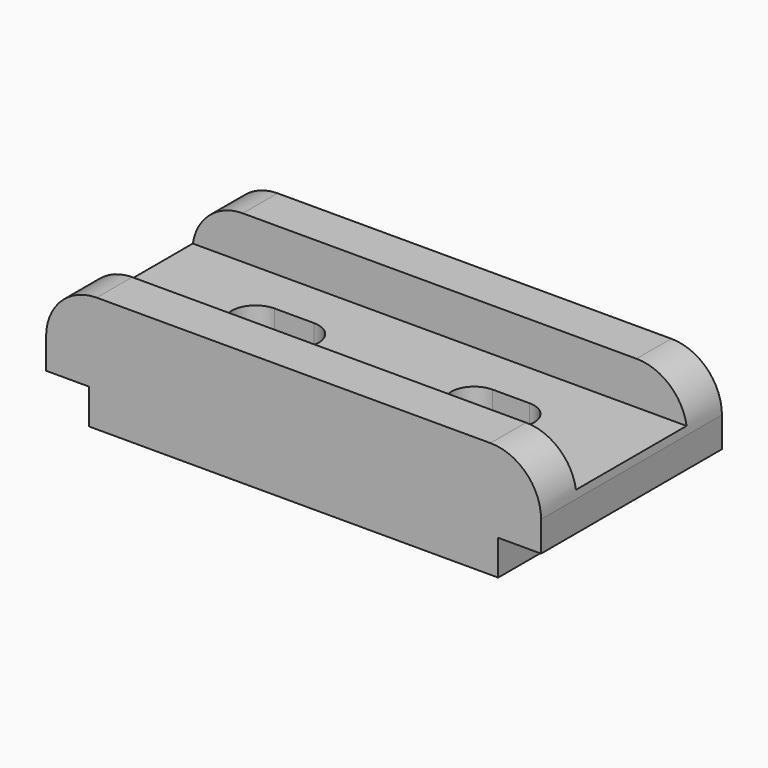
from build123d import *

# Parameters (mm, degrees)
F1_DEPTH = 58
F4_DEPTH = 29.741798
F6_DEPTH = 11


with BuildPart() as f1:
    # F0 (on Front) → F1 (new body)
    with BuildSketch(Plane.XZ):
        with BuildLine():
            Line((-52.5, 9), (-52.5, 0))
            Line((-52.5, 0), (52.5, 0))
            Line((52.5, 0), (52.5, 9))
            Line((52.5, 9), (63.5, 9))
            Line((63.5, 9), (63.5, 16.740798))
            ThreePointArc((63.5, 16.740798), (59.692388, 25.933186), (50.5, 29.740798))
            Line((50.5, 29.740798), (-50.5, 29.740798))
            ThreePointArc((-50.5, 29.740798), (-59.692388, 25.933186), (-63.5, 16.740798))
            Line((-63.5, 16.740798), (-63.5, 9))
            Line((-63.5, 9), (-52.5, 9))
        make_face()
    extrude(amount=F1_DEPTH)

    # F3 (on face) → F4 (cut, through all)
    with BuildSketch(Plane.XY.offset(29.740798)):
        with BuildLine():
            Line((-22.874139, -22.915082), (-32.964889, -22.915082))
            ThreePointArc((-32.964889, -22.915082), (-39.049807, -29), (-32.964889, -35.084918))
            Line((-32.964889, -35.084918), (-22.874139, -35.084918))
            ThreePointArc((-22.874139, -35.084918), (-16.789221, -29), (-22.874139, -22.915082))
        make_face()
        with BuildLine():
            Line((32.622553, -23.102847), (23.132133, -23.102847))
            ThreePointArc((23.132133, -23.102847), (17.234981, -29), (23.132133, -34.897153))
            Line((23.132133, -34.897153), (32.622553, -34.897153))
            ThreePointArc((32.622553, -34.897153), (38.519706, -29), (32.622553, -23.102847))
        make_face()
    extrude(amount=-F4_DEPTH, mode=Mode.SUBTRACT)

    # F5 (on face) → F6 (cut)
    with BuildSketch(Plane.XY.offset(29.740798)):
        Polygon((63.615084, -11.138136), (-63.967951, -11.138136), (-63.786983, -46.608031), (63.615084, -46.608031), align=None)
    extrude(amount=-F6_DEPTH, mode=Mode.SUBTRACT)


solid = f1.part
